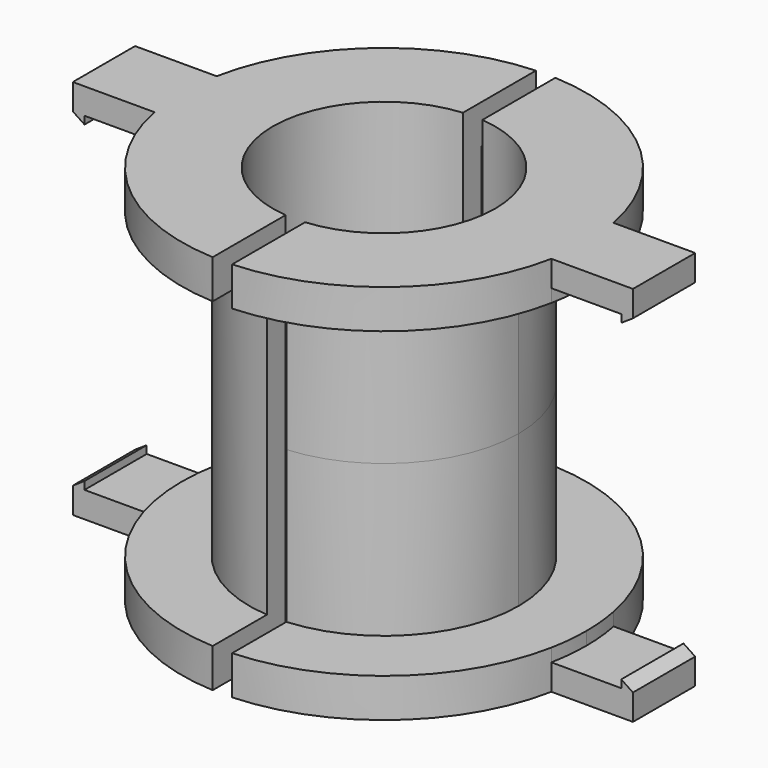
from build123d import *

# Parameters (mm, degrees)
F1_DEPTH = 5
F2_DEPTH = 3.33
F3_DEPTH = 4.33
F6_DEPTH = 10
F7_DEPTH = 24.5
F9_DEPTH = 49.001


with BuildPart() as f1:
    # F0 (on Top) → F1 (new body)
    with BuildSketch(Plane.XY):
        with BuildLine():
            Line((-1.25, 17.2547819459), (-1.25, 25.9699345398))
            ThreePointArc((-1.25, 25.9699345398), (-17.000642699, 19.6717601607), (-25.5147016443, 5))
            ThreePointArc((-25.5147016443, 5), (-26, 0), (-25.5147016443, -5))
            ThreePointArc((-25.5147016443, -5), (-17.000642699, -19.6717601607), (-1.25, -25.9699345398))
            Line((-1.25, -25.9699345398), (-1.25, -17.2547819459))
            ThreePointArc((-1.25, -17.2547819459), (-17.3, 0), (-1.25, 17.2547819459))
        make_face()
        with BuildLine():
            ThreePointArc((25.5147016443, -5), (25.8783910121, -2.511748121), (26, 0))
            ThreePointArc((26, 0), (25.8783910121, 2.511748121), (25.5147016443, 5))
            ThreePointArc((25.5147016443, 5), (17.000642699, 19.6717601607), (1.25, 25.9699345398))
            Line((1.25, 25.9699345398), (1.25, 17.2547819459))
            ThreePointArc((1.25, 17.2547819459), (12.6671820071, 11.782720399), (17.3, 0))
            ThreePointArc((17.3, 0), (12.6671820071, -11.782720399), (1.25, -17.2547819459))
            Line((1.25, -17.2547819459), (1.25, -25.9699345398))
            ThreePointArc((1.25, -25.9699345398), (17.000642699, -19.6717601607), (25.5147016443, -5))
        make_face()
        with BuildLine():
            Line((1.25, 17.2547819459), (1.25, 25.9699345398))
            ThreePointArc((1.25, 25.9699345398), (0, 26), (-1.25, 25.9699345398))
            Line((-1.25, 25.9699345398), (-1.25, 17.2547819459))
            ThreePointArc((-1.25, 17.2547819459), (0, 17.3), (1.25, 17.2547819459))
        make_face()
        with BuildLine():
            ThreePointArc((-1.25, -25.9699345398), (0, -26), (1.25, -25.9699345398))
            Line((1.25, -25.9699345398), (1.25, -17.2547819459))
            ThreePointArc((1.25, -17.2547819459), (0, -17.3), (-1.25, -17.2547819459))
            Line((-1.25, -17.2547819459), (-1.25, -25.9699345398))
        make_face()
        with BuildLine():
            Line((-1.25, 14.2452623703), (-1.25, 17.2547819459))
            ThreePointArc((-1.25, 17.2547819459), (-17.3, 0), (-1.25, -17.2547819459))
            Line((-1.25, -17.2547819459), (-1.25, -14.2452623703))
            ThreePointArc((-1.25, -14.2452623703), (-14.3, 0), (-1.25, 14.2452623703))
        make_face()
        with BuildLine():
            ThreePointArc((17.3, 0), (12.6671820071, 11.782720399), (1.25, 17.2547819459))
            Line((1.25, 17.2547819459), (1.25, 14.2452623703))
            ThreePointArc((1.25, 14.2452623703), (10.5443112625, 9.6595807362), (14.3, 0))
            ThreePointArc((14.3, 0), (10.5443112625, -9.6595807362), (1.25, -14.2452623703))
            Line((1.25, -14.2452623703), (1.25, -17.2547819459))
            ThreePointArc((1.25, -17.2547819459), (12.6671820071, -11.782720399), (17.3, 0))
        make_face()
        with BuildLine():
            ThreePointArc((-1.25, -17.2547819459), (0, -17.3), (1.25, -17.2547819459))
            Line((1.25, -17.2547819459), (1.25, -14.2452623703))
            ThreePointArc((1.25, -14.2452623703), (0, -14.3), (-1.25, -14.2452623703))
            Line((-1.25, -14.2452623703), (-1.25, -17.2547819459))
        make_face()
        with BuildLine():
            Line((1.25, 14.2452623703), (1.25, 17.2547819459))
            ThreePointArc((1.25, 17.2547819459), (0, 17.3), (-1.25, 17.2547819459))
            Line((-1.25, 17.2547819459), (-1.25, 14.2452623703))
            ThreePointArc((-1.25, 14.2452623703), (0, 14.3), (1.25, 14.2452623703))
        make_face()
    extrude(amount=F1_DEPTH)

    # F0 (on Top) → F2 (join)
    with BuildSketch(Plane.XY):
        with BuildLine():
            ThreePointArc((-25.5147016443, -5), (-26, 0), (-25.5147016443, 5))
            Line((-25.5147016443, 5), (-34.5, 5))
            Line((-34.5, 5), (-34.5, 0))
            Line((-34.5, 0), (-34.5, -5))
            Line((-34.5, -5), (-25.5147016443, -5))
        make_face()
        Polygon((-34.5, 0), (-34.5, 5), (-36, 5), (-36, 0), (-36, -5), (-34.5, -5), align=None)
        with BuildLine():
            ThreePointArc((25.5147016443, 5), (25.8783910121, 2.511748121), (26, 0))
            ThreePointArc((26, 0), (25.8783910121, -2.511748121), (25.5147016443, -5))
            Line((25.5147016443, -5), (34.5, -5))
            Line((34.5, -5), (34.5, 0))
            Line((34.5, 0), (34.5, 5))
            Line((34.5, 5), (25.5147016443, 5))
        make_face()
        Polygon((36, 5), (34.5, 5), (34.5, 0), (34.5, -5), (36, -5), (36, 0), align=None)
    extrude(amount=F2_DEPTH)

    # F0 (on Top) → F3 (join)
    with BuildSketch(Plane.XY):
        Polygon((-34.5, 0), (-34.5, 5), (-36, 5), (-36, 0), (-36, -5), (-34.5, -5), align=None)
        Polygon((36, 5), (34.5, 5), (34.5, 0), (34.5, -5), (36, -5), (36, 0), align=None)
    extrude(amount=F3_DEPTH)

    # F4 (on face) + F5 (on face) → F6 (cut, through all)
    with BuildSketch(Plane.XZ.offset(5)):
        Polygon((-36, 3.33), (-34.5, 4.33), (-36, 4.33), align=None)
    with BuildSketch(Plane.XZ.offset(5)):
        Polygon((36, 4.33), (34.5, 4.33), (36, 3.33), align=None)
    extrude(amount=-F6_DEPTH, mode=Mode.SUBTRACT)

    # F0 (on Top) → F7 (join)
    with BuildSketch(Plane.XY):
        with BuildLine():
            Line((-1.25, 14.2452623703), (-1.25, 17.2547819459))
            ThreePointArc((-1.25, 17.2547819459), (-17.3, 0), (-1.25, -17.2547819459))
            Line((-1.25, -17.2547819459), (-1.25, -14.2452623703))
            ThreePointArc((-1.25, -14.2452623703), (-14.3, 0), (-1.25, 14.2452623703))
        make_face()
        with BuildLine():
            ThreePointArc((17.3, 0), (12.6671820071, 11.782720399), (1.25, 17.2547819459))
            Line((1.25, 17.2547819459), (1.25, 14.2452623703))
            ThreePointArc((1.25, 14.2452623703), (10.5443112625, 9.6595807362), (14.3, 0))
            ThreePointArc((14.3, 0), (10.5443112625, -9.6595807362), (1.25, -14.2452623703))
            Line((1.25, -14.2452623703), (1.25, -17.2547819459))
            ThreePointArc((1.25, -17.2547819459), (12.6671820071, -11.782720399), (17.3, 0))
        make_face()
        with BuildLine():
            ThreePointArc((-1.25, -17.2547819459), (0, -17.3), (1.25, -17.2547819459))
            Line((1.25, -17.2547819459), (1.25, -14.2452623703))
            ThreePointArc((1.25, -14.2452623703), (0, -14.3), (-1.25, -14.2452623703))
            Line((-1.25, -14.2452623703), (-1.25, -17.2547819459))
        make_face()
        with BuildLine():
            Line((1.25, 14.2452623703), (1.25, 17.2547819459))
            ThreePointArc((1.25, 17.2547819459), (0, 17.3), (-1.25, 17.2547819459))
            Line((-1.25, 17.2547819459), (-1.25, 14.2452623703))
            ThreePointArc((-1.25, 14.2452623703), (0, 14.3), (1.25, 14.2452623703))
        make_face()
    extrude(amount=F7_DEPTH)

    # F8: F1 across face


with BuildPart() as f1_1:
    add(f1.part)
    add(f1.part.mirror(Plane.XY.offset(24.5)))

    # F0 (on Top) → F9 (cut, through all)
    with BuildSketch(Plane.XY):
        with BuildLine():
            ThreePointArc((-1.25, -25.9699345398), (0, -26), (1.25, -25.9699345398))
            Line((1.25, -25.9699345398), (1.25, -17.2547819459))
            ThreePointArc((1.25, -17.2547819459), (0, -17.3), (-1.25, -17.2547819459))
            Line((-1.25, -17.2547819459), (-1.25, -25.9699345398))
        make_face()
        with BuildLine():
            Line((1.25, 17.2547819459), (1.25, 25.9699345398))
            ThreePointArc((1.25, 25.9699345398), (0, 26), (-1.25, 25.9699345398))
            Line((-1.25, 25.9699345398), (-1.25, 17.2547819459))
            ThreePointArc((-1.25, 17.2547819459), (0, 17.3), (1.25, 17.2547819459))
        make_face()
        with BuildLine():
            ThreePointArc((-1.25, -17.2547819459), (0, -17.3), (1.25, -17.2547819459))
            Line((1.25, -17.2547819459), (1.25, -14.2452623703))
            ThreePointArc((1.25, -14.2452623703), (0, -14.3), (-1.25, -14.2452623703))
            Line((-1.25, -14.2452623703), (-1.25, -17.2547819459))
        make_face()
        with BuildLine():
            Line((1.25, 14.2452623703), (1.25, 17.2547819459))
            ThreePointArc((1.25, 17.2547819459), (0, 17.3), (-1.25, 17.2547819459))
            Line((-1.25, 17.2547819459), (-1.25, 14.2452623703))
            ThreePointArc((-1.25, 14.2452623703), (0, 14.3), (1.25, 14.2452623703))
        make_face()
    extrude(amount=F9_DEPTH, mode=Mode.SUBTRACT)


solid = f1_1.part
